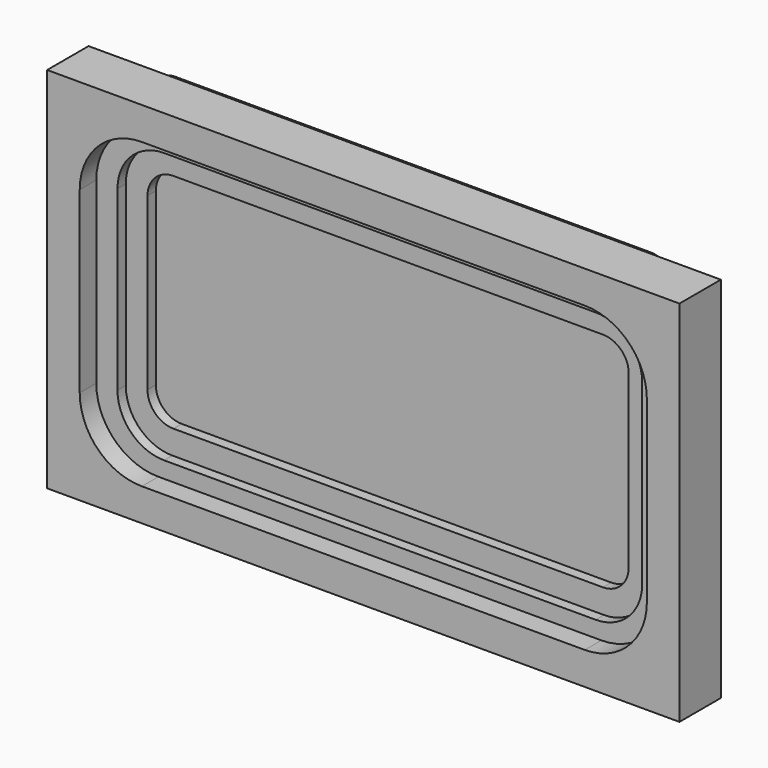
from build123d import *

# Parameters (mm, degrees)
F1_DEPTH  = 3.175
F2_W      = 194
F2_H      = 113
F3_DEPTH  = 15.875
F5_DEPTH  = 12.7
F7_DEPTH  = 3.175
F9_DEPTH  = 3.175
F10_DEPTH = 6.35


with BuildPart() as f1:
    # F0 (on Front) → F1 (new body)
    with BuildSketch(Plane.XZ):
        with BuildLine():
            ThreePointArc((79.375, 48.41875), (77.5151280605, 52.9088780605), (73.025, 54.76875))
            Line((73.025, 54.76875), (-73.025, 54.76875))
            ThreePointArc((-73.025, 54.76875), (-77.5151280605, 52.9088780605), (-79.375, 48.41875))
            Line((-79.375, 48.41875), (-79.375, -48.41875))
            ThreePointArc((-79.375, -48.41875), (-77.5151280605, -52.9088780605), (-73.025, -54.76875))
            Line((-73.025, -54.76875), (73.025, -54.76875))
            ThreePointArc((73.025, -54.76875), (77.5151280605, -52.9088780605), (79.375, -48.41875))
            Line((79.375, -48.41875), (79.375, 48.41875))
        make_face()
    extrude(amount=F1_DEPTH)

    # F2 (on face) → F3 (join)
    with BuildSketch(Plane.XZ.offset(3.175)):
        Rectangle(F2_W, F2_H)
    extrude(amount=F3_DEPTH)

    # F4 (on face) → F5 (cut)
    with BuildSketch(Plane.XZ.offset(19.05)):
        with BuildLine():
            Line((67.95, 46.5), (-67.95, 46.5))
            ThreePointArc((-67.95, 46.5), (-81.4203841816, 40.9203841816), (-87, 27.45))
            Line((-87, 27.45), (-87, -27.45))
            ThreePointArc((-87, -27.45), (-81.4203841816, -40.9203841816), (-67.95, -46.5))
            Line((-67.95, -46.5), (67.95, -46.5))
            ThreePointArc((67.95, -46.5), (81.4203841816, -40.9203841816), (87, -27.45))
            Line((87, -27.45), (87, 27.45))
            ThreePointArc((87, 27.45), (81.4203841816, 40.9203841816), (67.95, 46.5))
        make_face()
    extrude(amount=-F5_DEPTH, mode=Mode.SUBTRACT)

    # F6 (on face) → F7 (join)
    with BuildSketch(Plane.XZ.offset(6.35)):
        with BuildLine():
            Line((66.2125, 41.5), (-66.2125, 41.5))
            ThreePointArc((-66.2125, 41.5), (-76.3152881362, 37.3152881362), (-80.5, 27.2125))
            Line((-80.5, 27.2125), (-80.5, -27.2125))
            ThreePointArc((-80.5, -27.2125), (-76.3152881362, -37.3152881362), (-66.2125, -41.5))
            Line((-66.2125, -41.5), (66.2125, -41.5))
            ThreePointArc((66.2125, -41.5), (76.3152881362, -37.3152881362), (80.5, -27.2125))
            Line((80.5, -27.2125), (80.5, 27.2125))
            ThreePointArc((80.5, 27.2125), (76.3152881362, 37.3152881362), (66.2125, 41.5))
        make_face()
    extrude(amount=F7_DEPTH)

    # F8 (on face) → F9 (cut)
    with BuildSketch(Plane.XZ.offset(9.525)):
        with BuildLine():
            Line((65.88125, 34.13125), (-65.88125, 34.13125))
            ThreePointArc((-65.88125, 34.13125), (-71.4939100757, 31.8064100757), (-73.81875, 26.19375))
            Line((-73.81875, 26.19375), (-73.81875, -26.19375))
            ThreePointArc((-73.81875, -26.19375), (-71.4939100757, -31.8064100757), (-65.88125, -34.13125))
            Line((-65.88125, -34.13125), (65.88125, -34.13125))
            ThreePointArc((65.88125, -34.13125), (71.4939100757, -31.8064100757), (73.81875, -26.19375))
            Line((73.81875, -26.19375), (73.81875, 26.19375))
            ThreePointArc((73.81875, 26.19375), (71.4939100757, 31.8064100757), (65.88125, 34.13125))
        make_face()
    extrude(amount=-F9_DEPTH, mode=Mode.SUBTRACT)

    # F10 (add): a face of the model
    f10_faces = [f1.faces().sort_by_distance(p)[0] for p in [
        (85.0270580343, -6.35, 0),
    ]]
    extrude(f10_faces, amount=F10_DEPTH)


solid = f1.part
